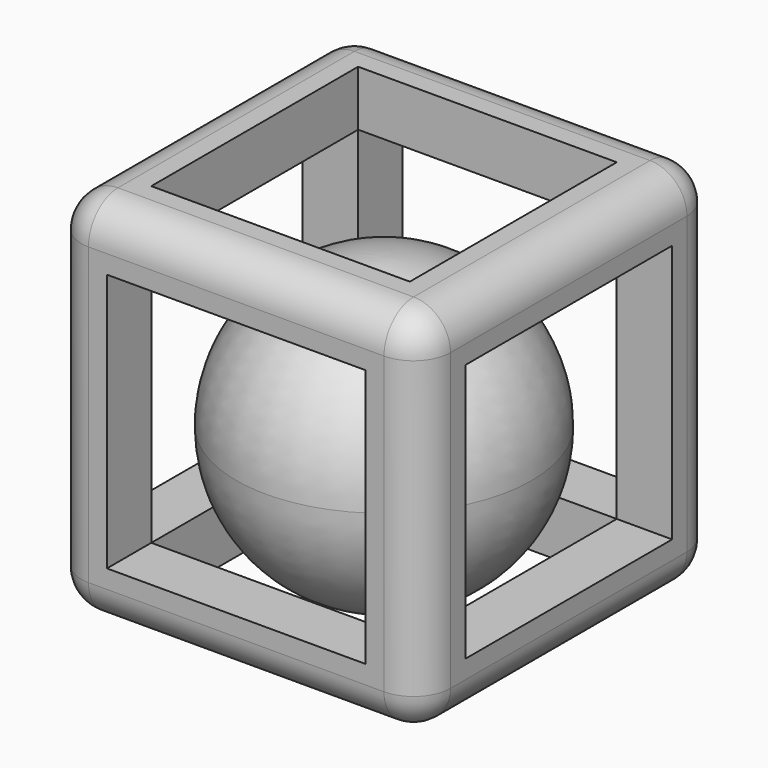
from build123d import *

# Parameters (mm, degrees)
F0_W     = 50
F0_H     = 50
F1_DEPTH = 50
F2_R     = 5
F3_W     = 35
F3_H     = 35
F4_DEPTH = 56.8
F5_W     = 35
F5_H     = 35
F6_DEPTH = 65.6
F7_W     = 35
F7_H     = 35
F8_DEPTH = 54


with BuildPart() as f1:
    # F0 (on Top) → F1 (new body)
    with BuildSketch(Plane.XY):
        Rectangle(F0_W, F0_H)
    extrude(amount=F1_DEPTH)

    # F2
    f2_edges = [f1.edges().sort_by_distance(p)[0] for p in [
        (25, 0, 50),
        (0, -25, 50),
        (-25, 0, 50),
        (0, 25, 50),
        (25, -25, 25),
        (25, 25, 25),
        (-25, 25, 25),
        (0, 25, 0),
        (-25, 0, 0),
        (-25, -25, 25),
        (0, -25, 0),
        (25, 0, 0),
    ]]
    fillet(f2_edges, radius=F2_R)

    # F3 (on face) → F4 (cut)
    with BuildSketch(Plane.XY.offset(50)):
        Rectangle(F3_W, F3_H)
    extrude(amount=-F4_DEPTH, mode=Mode.SUBTRACT)

    # F5 (on face) → F6 (cut)
    with BuildSketch(Plane(origin=(-25, 0, 0), x_dir=(0, -1, 0), z_dir=(-1, 0, 0))):
        with Locations((0, 25)):
            Rectangle(F5_W, F5_H)
    extrude(amount=-F6_DEPTH, mode=Mode.SUBTRACT)

    # F7 (on face) → F8 (cut, symmetric)
    with BuildSketch(Plane.XZ.offset(25)):
        with Locations((0, 25)):
            Rectangle(F7_W, F7_H)
    extrude(amount=F8_DEPTH, both=True, mode=Mode.SUBTRACT)


with BuildPart() as f10:
    # F9 (on Front) → F10 (revolve)
    with BuildSketch(Plane.XZ):
        with BuildLine():
            ThreePointArc((0, 0), (14.142136, 5.857864), (20, 20))
            ThreePointArc((20, 20), (14.142136, 34.142136), (0, 40))
            Line((0, 40), (0, 0))
        make_face()
    revolve(axis=Axis((0, 0, 20), (0, 0, 1)))


solid = Compound([f1.part, f10.part])
